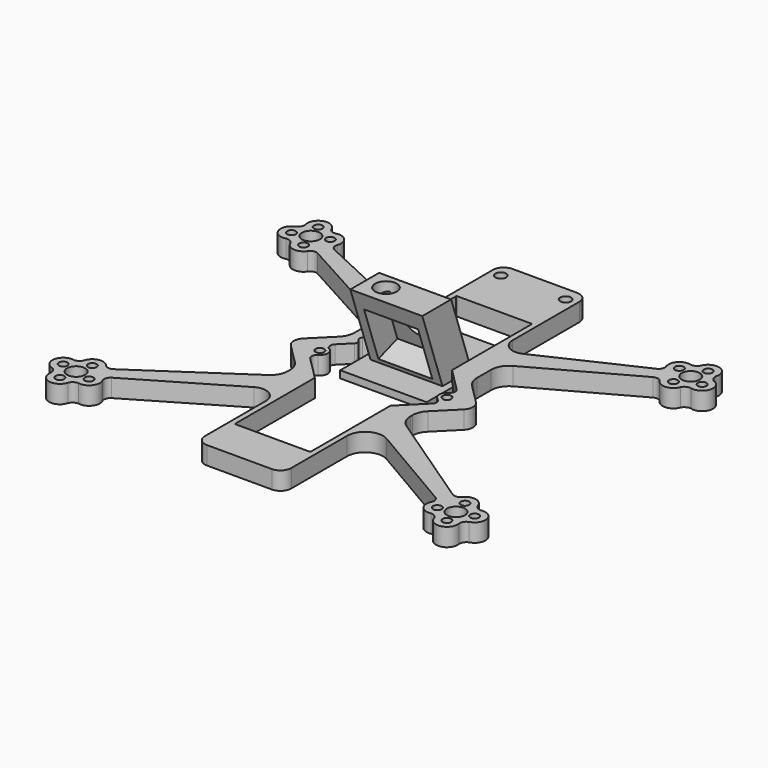
from build123d import *

# Parameters (mm, degrees)
SKETCH_R        = 1.2
SKETCH_R_2      = 2.5
SKETCH_R_3      = 1.5
PAD_DEPTH       = 5
POCKET_DEPTH    = 10
SKETCH007_R     = 1.5
PAD001_DEPTH    = 2
SKETCH008_W     = 20
SKETCH008_H     = 10
SKETCH009_W     = 20
SKETCH009_H     = 10
SKETCH010_W     = 15
SKETCH010_H     = 15
POCKET001_DEPTH = 1
SKETCH011_R     = 0.5
SKETCH011_R_2   = 3.75
POCKET002_DEPTH = 10
SKETCH012_W     = 15
SKETCH012_H     = 15
POCKET003_DEPTH = 7
SKETCH013_R     = 3
POCKET004_DEPTH = 5


with BuildPart() as frame:
    # Sketch → Pad (new body)
    with BuildSketch(Plane.XY):
        with BuildLine():
            Line((0, 56), (9, 56))
            ThreePointArc((12, 53.0000000548), (11.1213203242, 55.1213203629), (9, 56))
            Line((12, 53.0000000548), (12, 29.8895462519))
            ThreePointArc((12, 29.8895462519), (13.8527135386, 26.5147631696), (17.6945804264, 26.2662332405))
            Line((44.725712806, 38.9083725446), (17.6945804264, 26.2662332405))
            ThreePointArc((44.725712806, 38.9083725446), (45.6163839311, 39.8386258714), (45.6477166251, 41.1261368685))
            ThreePointArc((49.2920844146, 45.0270106154), (46.2784326637, 44.1896954062), (45.6477166251, 41.1261368685))
            ThreePointArc((49.2920844146, 45.0270106154), (50.4725525226, 45.2225775761), (51.3250620327, 46.0622078074))
            ThreePointArc((57.0270106154, 44.2079155854), (55.0694566716, 47.8823292653), (51.3250620327, 46.0622078074))
            ThreePointArc((57.0270106154, 44.2079155854), (57.2225775761, 43.0274474774), (58.0622078074, 42.1749379673))
            ThreePointArc((56.2079155854, 36.4729893846), (59.8823292653, 38.4305433284), (58.0622078074, 42.1749379673))
            ThreePointArc((56.2079155854, 36.4729893846), (55.0274474774, 36.2774224239), (54.1749379673, 35.4377921926))
            ThreePointArc((48.8766189151, 34.7850372658), (51.7251537082, 33.4931139975), (54.1749379673, 35.4377921926))
            ThreePointArc((48.8766189151, 34.7850372658), (47.8178886381, 35.5167705553), (46.5424479715, 35.3447399985))
            Line((46.5424479715, 35.3447399985), (19.5876015357, 20.4970864089))
            ThreePointArc((19.5876015357, 20.4970864089), (17.6952355493, 18.6609741138), (17, 16.1175502564))
            Line((17, 11.2063491861), (17, 16.1175502564))
            ThreePointArc((17, 11.2063491861), (17.3806023374, 9.2929320243), (18.4644660941, 7.6708152802))
            Line((18.4644660941, 7.6708152802), (24.0139610307, 2.1213203436))
            ThreePointArc((24.0139610307, -2.1213203436), (24.8926406871, 0), (24.0139610307, 2.1213203436))
            Line((24.0139610307, -2.1213203436), (18.4644660941, -7.6708152802))
            ThreePointArc((18.4644660941, -7.6708152802), (17.3806023374, -9.2929320243), (17, -11.2063491861))
            Line((17, -11.2063491861), (17, -11.8582757479))
            ThreePointArc((17, -11.8582757479), (17.5853912292, -14.2058765233), (19.2044917602, -16.0037713373))
            Line((19.2044917602, -16.0037713373), (47.0729604232, -34.7968280657))
            ThreePointArc((47.0729604232, -34.7968280657), (48.325264048, -35.0828872595), (49.4445436225, -34.4525639576))
            ThreePointArc((54.6598582792, -35.5922445431), (52.4003025568, -33.4294496712), (49.4445436225, -34.4525639576))
            ThreePointArc((54.6598582792, -35.5922445431), (55.4311090539, -36.5070798467), (56.5884467856, -36.8109231698))
            ThreePointArc((57.9077554569, -42.6598582792), (60.0661885707, -39.0997319013), (56.5884467856, -36.8109231698))
            ThreePointArc((57.9077554569, -42.6598582792), (56.9929201533, -43.4311090539), (56.6890768302, -44.5884467856))
            ThreePointArc((50.8401417208, -45.9077554569), (54.4002680987, -48.0661885707), (56.6890768302, -44.5884467856))
            ThreePointArc((50.8401417208, -45.9077554569), (50.0688909461, -44.9929201533), (48.9115532144, -44.6890768302))
            ThreePointArc((45.6433528914, -40.4680485122), (45.9881993668, -43.5767884579), (48.9115532144, -44.6890768302))
            ThreePointArc((45.6433528914, -40.4680485122), (45.7310404526, -39.1827330198), (44.9295624821, -38.1740913162))
            Line((19.5258035149, -23.304329358), (44.9295624821, -38.1740913162))
            ThreePointArc((19.5258035149, -23.304329358), (14.5129352214, -23.2818863895), (12, -27.6194558457))
            Line((12, -27.6194558457), (12, -46.9999996204))
            ThreePointArc((9, -50), (11.1213204778, -49.1213202093), (12, -46.9999996204))
            Line((9, -50), (0, -50))
            Line((0, -50), (-8.9999720194, -50))
            ThreePointArc((-11.9999720194, -47.0000001806), (-11.1212922991, -49.1213204074), (-8.9999720194, -50))
            Line((-11.9999720194, -47.0000001806), (-11.9999720194, -25.8056186702))
            ThreePointArc((-11.9999720194, -25.8056186702), (-14.0136755411, -22.3336413805), (-18.0272851696, -22.3574305386))
            Line((-44.9325810452, -38.1760164328), (-18.0272851696, -22.3574305386))
            ThreePointArc((-44.9325810452, -38.1760164328), (-45.7315279882, -39.1844743958), (-45.643331734, -40.4680339393))
            ThreePointArc((-48.9115252337, -44.6890768302), (-45.9881664606, -43.5767820962), (-45.643331734, -40.4680339393))
            ThreePointArc((-48.9115252337, -44.6890768302), (-50.0688629654, -44.9929201533), (-50.8401137401, -45.9077554569))
            ThreePointArc((-56.6890488495, -44.5884467856), (-54.400240118, -48.0661885707), (-50.8401137401, -45.9077554569))
            ThreePointArc((-56.6890488495, -44.5884467856), (-56.9928921727, -43.4311090539), (-57.9077274763, -42.6598582792))
            ThreePointArc((-56.588418805, -36.8109231698), (-60.0661605901, -39.0997319013), (-57.9077274763, -42.6598582792))
            ThreePointArc((-56.588418805, -36.8109231698), (-55.4310810733, -36.5070798467), (-54.6598302986, -35.5922445431))
            ThreePointArc((-49.444515642, -34.4525639574), (-52.4002745762, -33.4294496713), (-54.6598302986, -35.5922445431))
            ThreePointArc((-49.444515642, -34.4525639574), (-48.3252360404, -35.0828872638), (-47.0729323968, -34.7968280367))
            Line((-47.0729323968, -34.7968280367), (-19.2044916391, -16.0037889418))
            ThreePointArc((-19.2044916391, -16.0037889418), (-17.5853911949, -14.205894145), (-17, -11.8582934341))
            Line((-17, -11.2063495883), (-17, -11.8582934341))
            ThreePointArc((-17, -11.2063495883), (-17.3806022369, -9.292932267), (-18.464466007, -7.6708153673))
            Line((-24.013961105, -2.1213202692), (-18.464466007, -7.6708153673))
            ThreePointArc((-24.0139610307, 2.1213203436), (-24.8926406871, 5.26e-08), (-24.013961105, -2.1213202692))
            Line((-24.0139610307, 2.1213203436), (-18.4644660941, 7.6708152802))
            ThreePointArc((-18.4644660941, 7.6708152802), (-17.3806023374, 9.2929320243), (-17, 11.2063491861))
            Line((-17, 16.1175506288), (-17, 11.2063491861))
            ThreePointArc((-17, 16.1175506288), (-17.695235644, 18.6609742741), (-19.5876015357, 20.4970864089))
            Line((-19.5876015357, 20.4970864089), (-46.5424479715, 35.3447399985))
            ThreePointArc((-46.5424479715, 35.3447399985), (-47.8178886381, 35.5167705553), (-48.8766189151, 34.7850372658))
            ThreePointArc((-54.1749379673, 35.4377921926), (-51.7251537082, 33.4931139975), (-48.8766189151, 34.7850372658))
            ThreePointArc((-54.1749379673, 35.4377921926), (-55.0274474774, 36.2774224239), (-56.2079155854, 36.4729893846))
            ThreePointArc((-58.0622078074, 42.1749379673), (-59.8823292653, 38.4305433284), (-56.2079155854, 36.4729893846))
            ThreePointArc((-58.0622078074, 42.1749379673), (-57.2225775761, 43.0274474774), (-57.0270106154, 44.2079155854))
            ThreePointArc((-51.3250620327, 46.0622078074), (-55.0694566716, 47.8823292653), (-57.0270106154, 44.2079155854))
            ThreePointArc((-51.3250620327, 46.0622078074), (-50.4725525226, 45.2225775761), (-49.2920844146, 45.0270106154))
            ThreePointArc((-45.6477110725, 41.1261523031), (-46.2784382626, 44.1897013992), (-49.2920844146, 45.0270106154))
            ThreePointArc((-45.6477110725, 41.1261523031), (-45.6157237469, 39.8369754705), (-44.7225705881, 38.9067725196))
            Line((-19.1096715404, 26.9868011084), (-44.7225705881, 38.9067725196))
            ThreePointArc((-19.1096715404, 26.9868011084), (-14.3119112461, 27.3039897255), (-12, 31.5199331373))
            Line((-12, 31.5199331373), (-12, 52.9999999842))
            ThreePointArc((-9, 56), (-11.1213203491, 55.121320338), (-12, 52.9999999842))
            Line((-9, 56), (0, 56))
        make_face()
        with Locations((51.7598391408, -36.3602868576)):
            Circle(SKETCH_R, mode=Mode.SUBTRACT)
        with Locations((57.1397131424, -39.7598391408)):
            Circle(SKETCH_R, mode=Mode.SUBTRACT)
        with Locations((53.7401608592, -45.1397131424)):
            Circle(SKETCH_R, mode=Mode.SUBTRACT)
        with Locations((48.3602868576, -41.7401608592)):
            Circle(SKETCH_R, mode=Mode.SUBTRACT)
        with Locations((51.358325997, 36.4706024408)):
            Circle(SKETCH_R, mode=Mode.SUBTRACT)
        with Locations((57.0293975592, 39.358325997)):
            Circle(SKETCH_R, mode=Mode.SUBTRACT)
        with Locations((54.141674003, 45.0293975592)):
            Circle(SKETCH_R, mode=Mode.SUBTRACT)
        with Locations((48.4706024408, 42.141674003)):
            Circle(SKETCH_R, mode=Mode.SUBTRACT)
        with Locations((52.75, -40.75)):
            Circle(SKETCH_R_2, mode=Mode.SUBTRACT)
        with Locations((52.75, 40.75)):
            Circle(SKETCH_R_2, mode=Mode.SUBTRACT)
        with Locations((-51.358325997, 36.4706024408)):
            Circle(SKETCH_R, mode=Mode.SUBTRACT)
        with Locations((-57.0293975592, 39.358325997)):
            Circle(SKETCH_R, mode=Mode.SUBTRACT)
        with Locations((-54.141674003, 45.0293975592)):
            Circle(SKETCH_R, mode=Mode.SUBTRACT)
        with Locations((-48.4706024408, 42.141674003)):
            Circle(SKETCH_R, mode=Mode.SUBTRACT)
        with Locations((-51.7598111602, -36.3602868576)):
            Circle(SKETCH_R, mode=Mode.SUBTRACT)
        with Locations((-57.1396851618, -39.7598391408)):
            Circle(SKETCH_R, mode=Mode.SUBTRACT)
        with Locations((-53.7401328786, -45.1397131424)):
            Circle(SKETCH_R, mode=Mode.SUBTRACT)
        with Locations((-48.3602588769, -41.7401608592)):
            Circle(SKETCH_R, mode=Mode.SUBTRACT)
        with Locations((-52.75, 40.75)):
            Circle(SKETCH_R_2, mode=Mode.SUBTRACT)
        with Locations((-52.7499720194, -40.75)):
            Circle(SKETCH_R_2, mode=Mode.SUBTRACT)
        with Locations((-17.65, 0)):
            Circle(SKETCH_R, mode=Mode.SUBTRACT)
        with Locations((17.65, 0)):
            Circle(SKETCH_R, mode=Mode.SUBTRACT)
        with Locations((0, 17.65)):
            Circle(SKETCH_R, mode=Mode.SUBTRACT)
        with Locations((0, -17.65)):
            Circle(SKETCH_R, mode=Mode.SUBTRACT)
        with Locations((9, 52)):
            Circle(SKETCH_R_3, mode=Mode.SUBTRACT)
        with Locations((-9, 52)):
            Circle(SKETCH_R_3, mode=Mode.SUBTRACT)
    extrude(amount=PAD_DEPTH)

    # Sketch002 → Pocket (cut)
    with BuildSketch(Plane.XY):
        with BuildLine():
            ThreePointArc((16.5933834381, 1.9142423231), (15.4776695297, 0), (16.5933834381, -1.9142423231))
            ThreePointArc((16.9147576384, -4.2800677152), (17.3404466773, -3.0175015657), (16.5933834381, -1.9142423231))
            Line((16.9147576384, -4.2800677152), (10.5, -10.6948253536))
            Line((10.5, -38.25), (10.5, -10.6948253536))
            ThreePointArc((10.25, -38.5), (10.4267766953, -38.4267766953), (10.5, -38.25))
            Line((10.25, -38.5), (-10.25, -38.5))
            ThreePointArc((-10.5, -38.25), (-10.4267766953, -38.4267766953), (-10.25, -38.5))
            Line((-10.5, -10.6948253536), (-10.5, -38.25))
            Line((-10.5, -10.6948253536), (-16.9147576384, -4.2800677152))
            ThreePointArc((-16.5933834381, -1.9142423231), (-17.3404466773, -3.0175015657), (-16.9147576384, -4.2800677152))
            ThreePointArc((-16.5933834381, -1.9142423231), (-15.4776695297, 0), (-16.5933834381, 1.9142423231))
            ThreePointArc((-16.9147576384, 4.2800677152), (-17.3404466773, 3.0175015657), (-16.5933834381, 1.9142423231))
            Line((-13.8723575658, 7.3224677878), (-16.9147576384, 4.2800677152))
            ThreePointArc((-13.8723575658, 7.3224677878), (-13.579464347, 8.0295745689), (-13.8723575658, 8.7366813501))
            Line((-13.8723575658, 8.7366813501), (-14.2214626533, 9.0857864376))
            ThreePointArc((-14.2214626533, 10.5), (-14.5143558721, 9.7928932188), (-14.2214626533, 9.0857864376))
            Line((-14.2214626533, 10.5), (-10.5, 14.2214626533))
            Line((-10.5, 38.25), (-10.5, 14.2214626533))
            ThreePointArc((-10.25, 38.5), (-10.4267766953, 38.4267766953), (-10.5, 38.25))
            Line((-10.25, 38.5), (10.25, 38.5))
            ThreePointArc((10.5, 38.25), (10.4267766953, 38.4267766953), (10.25, 38.5))
            Line((10.5, 10.6948253536), (10.5, 38.25))
            Line((10.5, 10.6948253536), (16.9147576384, 4.2800677152))
            ThreePointArc((16.5933834381, 1.9142423231), (17.3404466773, 3.0175015657), (16.9147576384, 4.2800677152))
        make_face()
    extrude(amount=POCKET_DEPTH, mode=Mode.SUBTRACT)


with BuildPart() as cameramount:
    # Sketch007 → Pad001 (new body)
    with BuildSketch(Plane.XY):
        with BuildLine():
            Line((-9, 30), (9, 30))
            ThreePointArc((12, 27), (11.1213203436, 29.1213203436), (9, 30))
            Line((12, 27), (12, 0))
            Line((12, 0), (-12, 0))
            Line((-12, 0), (-12, 27))
            ThreePointArc((-9, 30), (-11.1213203436, 29.1213203436), (-12, 27))
        make_face()
        with Locations((-9, 26)):
            Circle(SKETCH007_R, mode=Mode.SUBTRACT)
        with Locations((9, 26)):
            Circle(SKETCH007_R, mode=Mode.SUBTRACT)
    extrude(amount=PAD001_DEPTH)

    # Sketch008 (on Face10 of Pad001) → AdditiveLoft section 0
    with BuildSketch(Plane.XY.offset(2)):
        with Locations((0, 13)):
            Rectangle(SKETCH008_W, SKETCH008_H)
    # Sketch009 (on Face10 of Pad001) → AdditiveLoft section 1
    with BuildSketch(Plane.XY.offset(22)):
        with Locations((0, 6)):
            Rectangle(SKETCH009_W, SKETCH009_H)
    loft()

    # Sketch010 (on Face12 of AdditiveLoft) → Pocket001 (cut)
    with BuildSketch(Plane(origin=(0, 16.6592427617, 5.8307349666), x_dir=(-1, 0, 0), z_dir=(0, 0.9438583564, 0.3303504247))):
        with Locations((0, 8.131029168)):
            Rectangle(SKETCH010_W, SKETCH010_H)
    extrude(amount=-POCKET001_DEPTH, mode=Mode.SUBTRACT)

    # Sketch011 (on Face20 of Pocket001) → Pocket002 (cut)
    with BuildSketch(Plane(origin=(0, 15.7153844053, 5.5003845419), x_dir=(-1, 0, 0), z_dir=(0, 0.9438583564, 0.3303504247))):
        with Locations((5.6568542495, 13.7878834175)):
            Circle(SKETCH011_R)
        with Locations((-5.6568542495, 2.4741749186)):
            Circle(SKETCH011_R)
        with Locations((0, 8.131029168)):
            Circle(SKETCH011_R_2)
    extrude(amount=-POCKET002_DEPTH, mode=Mode.SUBTRACT)

    # Sketch012 (on Face14 of Pocket002) → Pocket003 (cut)
    with BuildSketch(Plane(origin=(0, 7.7505567929, 2.7126948775), x_dir=(1, 0, 0), z_dir=(0, -0.9438583564, -0.3303504247))):
        with Locations((0, 7.9345334153)):
            Rectangle(SKETCH012_W, SKETCH012_H)
    extrude(amount=-POCKET003_DEPTH, mode=Mode.SUBTRACT)

    # Sketch013 (on Face15 of Pocket003) → Pocket004 (cut)
    with BuildSketch(Plane.XY.offset(22)):
        with Locations((-4.5, 6.5)):
            Circle(SKETCH013_R)
    extrude(amount=-POCKET004_DEPTH, mode=Mode.SUBTRACT)


solid = Compound([frame.part, cameramount.part])
